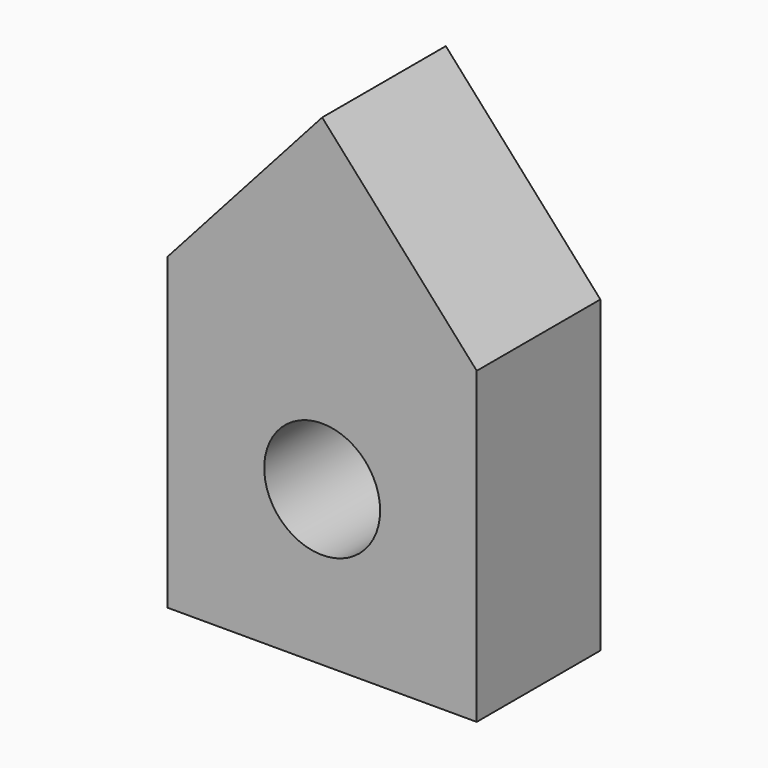
from build123d import *

# Parameters (mm, degrees)
F0_W     = 50.8
F0_H     = 50.8
F0_R     = 9.525
F1_DEPTH = 25.4


with BuildPart() as f1:
    # F0 (on Front) → F1 (new body)
    with BuildSketch(Plane.XZ):
        Rectangle(F0_W, F0_H)
        Circle(F0_R, mode=Mode.SUBTRACT)
        Polygon((0, 53.798063), (-25.4, 25.4), (25.4, 25.4), align=None)
    extrude(amount=F1_DEPTH)


solid = f1.part
